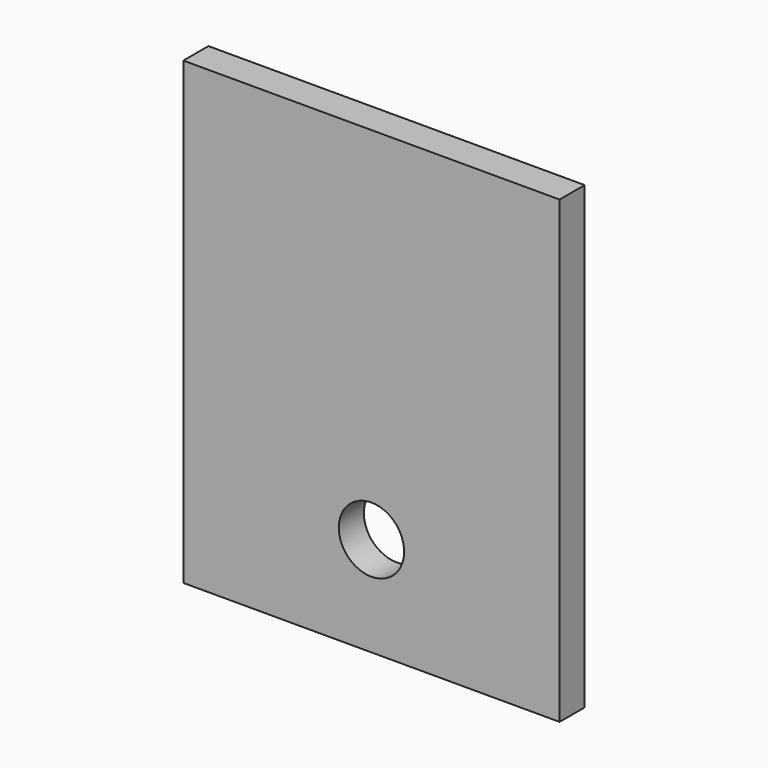
from build123d import *

# Parameters (mm, degrees)
F0_W     = 228.6
F0_H     = 279.4
F0_R     = 19.84375
F1_DEPTH = 9.525


with BuildPart() as f1:
    # F0 (on Front) → F1 (new body, symmetric)
    with BuildSketch(Plane.XZ):
        Rectangle(F0_W, F0_H)
        with Locations((0, -79.375)):
            Circle(F0_R, mode=Mode.SUBTRACT)
    extrude(amount=F1_DEPTH, both=True)


solid = f1.part
